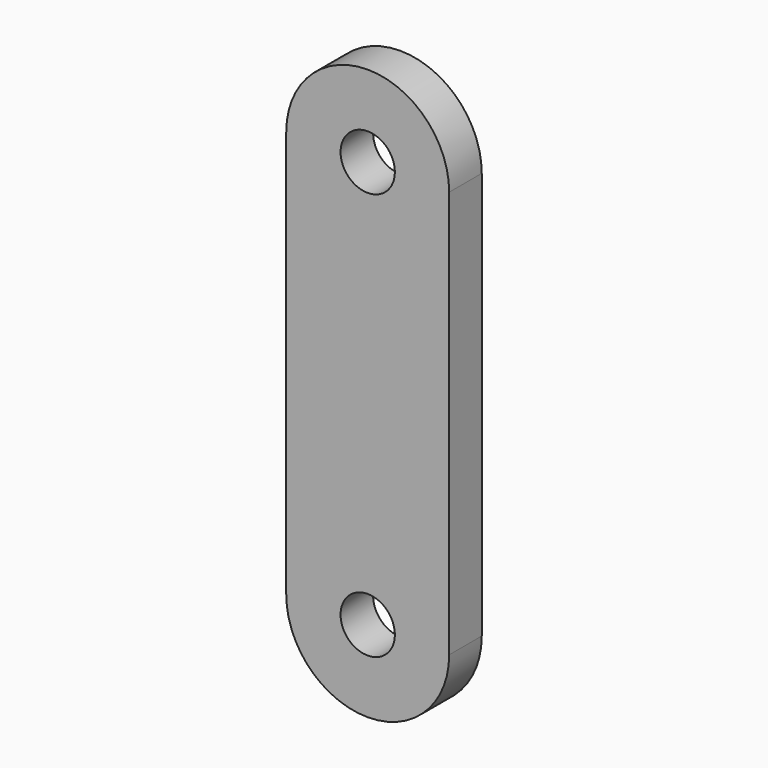
from build123d import *

# Parameters (mm, degrees)
F1_DEPTH = 3


with BuildPart() as f1:
    # F0 (on Front) → F1 (new body)
    with BuildSketch(Plane.XZ):
        with BuildLine():
            Line((2, 0), (6, 0))
            ThreePointArc((6, 0), (0, 6), (-6, 0))
            Line((-6, 0), (-2, 0))
            ThreePointArc((-2, 0), (0, 2), (2, 0))
        make_face()
        with BuildLine():
            Line((6, -30), (6, 0))
            ThreePointArc((6, 0), (0, -6), (-6, 0))
            Line((-6, 0), (-6, -30))
            ThreePointArc((-6, -30), (0, -24), (6, -30))
        make_face()
        with BuildLine():
            ThreePointArc((-6, 0), (0, -6), (6, 0))
            Line((6, 0), (2, 0))
            ThreePointArc((2, 0), (0, -2), (-2, 0))
            Line((-2, 0), (-6, 0))
        make_face()
        with BuildLine():
            Line((2, -30), (6, -30))
            ThreePointArc((6, -30), (0, -24), (-6, -30))
            Line((-6, -30), (-2, -30))
            ThreePointArc((-2, -30), (0, -28), (2, -30))
        make_face()
        with BuildLine():
            ThreePointArc((-6, -30), (0, -36), (6, -30))
            Line((6, -30), (2, -30))
            ThreePointArc((2, -30), (0, -32), (-2, -30))
            Line((-2, -30), (-6, -30))
        make_face()
    extrude(amount=F1_DEPTH)


solid = f1.part
